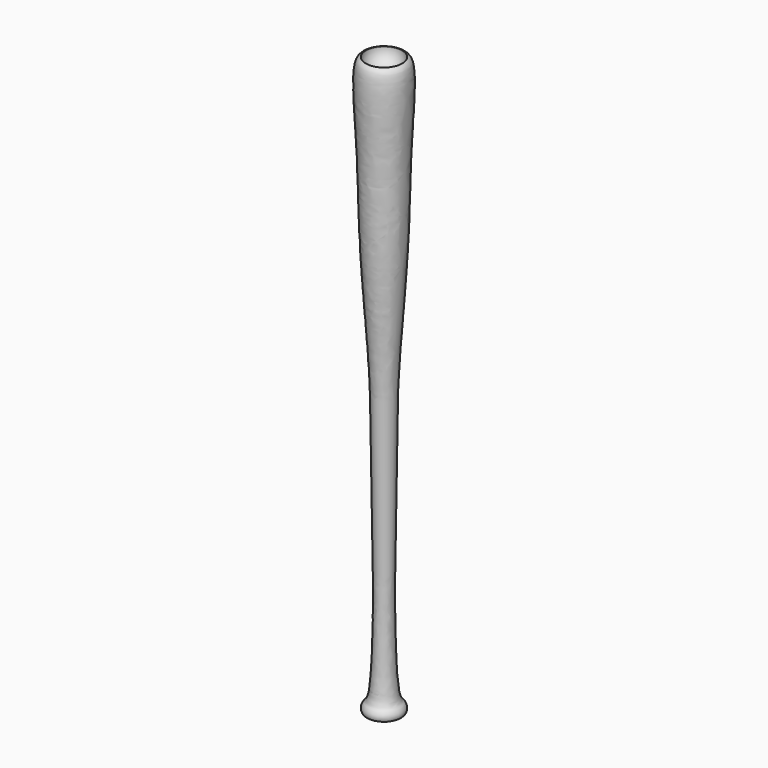
from build123d import *

# Parameters (mm, degrees)
F3_R     = 25.4
F4_DEPTH = 25.4
F5_R     = 20.32


with BuildPart() as f1:
    # F0 (on Front) → F1 (revolve)
    with BuildSketch(Plane.XZ):
        with BuildLine():
            Line((0, 812.8), (0, 0))
            add(Edge.make_bspline(
                [(0, 0), (21.3415997865, 0), (24.8112814278, 1.7729454521), (26.0253571333, 9.0219476598), (22.7955327501, 14.7947636705), (15.3244942212, 18.8923079483), (11.7026223253, 110.6019620057), (12.4584850099, 201.6190880039), (14.6889835154, 305.1860416359), (14.5105719595, 406.4697022891), (22.5264751993, 507.5432214393), (28.7311686632, 611.316633791), (29.2624138251, 703.3495223412), (38.0861224254, 814.2472296873), (23.8750420309, 812.8987947466), (0, 812.8)],
                knots=[0, 0, 0, 0, 0.0518249728, 0.0739912649, 0.0989728287, 0.1245250035, 0.218260884, 0.3220982408, 0.4259419346, 0.5297856285, 0.6337242407, 0.7376393249, 0.8415020233, 0.9409682668, 1, 1, 1, 1], degree=3))
        make_face()
    revolve(axis=Axis((0, 0, 406.4), (0, 0, -1)))

    # F3 (on offset) → F4 (cut)
    with BuildSketch(Plane.XY.offset(815.34)):
        Circle(F3_R)
    extrude(amount=-F4_DEPTH, mode=Mode.SUBTRACT)

    # F5
    f5_edges = [f1.edges().sort_by_distance(p)[0] for p in [
        (-25.4, 0, 789.94),
    ]]
    fillet(f5_edges, radius=F5_R)


solid = f1.part
